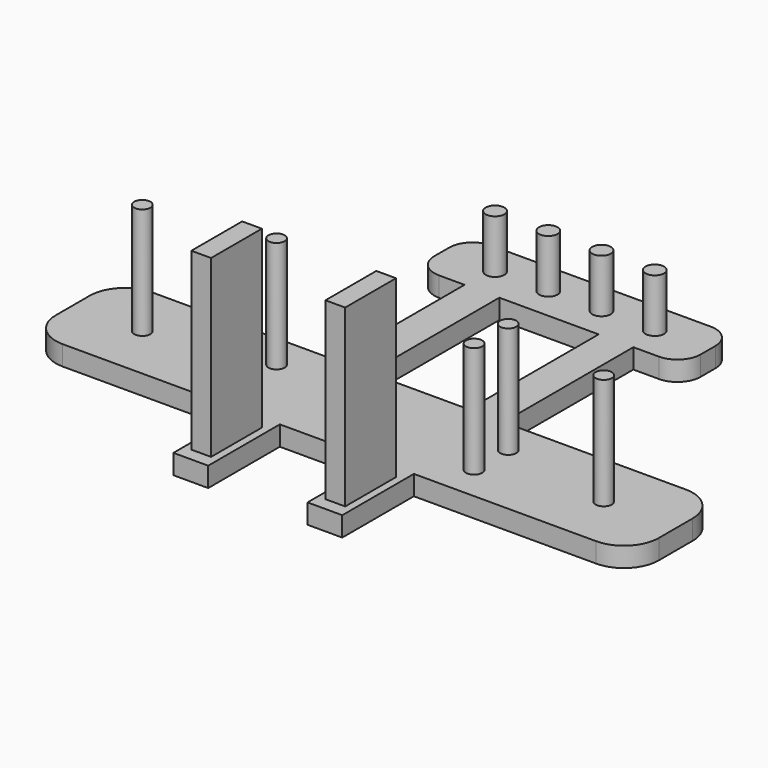
from build123d import *

# Parameters (mm, degrees)
F0_W     = 3.81
F0_H     = 17.78
F0_W_2   = 3.802742
F0_H_2   = 9.8044
F1_DEPTH = 2.159
F2_R     = 0.889
F3_DEPTH = 12.192
F4_R     = 1.016
F5_DEPTH = 5.842
F6_W     = 2.159
F6_H     = 6.9596
F7_DEPTH = 19.177


with BuildPart() as f1:
    # F0 (on Top) → F1 (new body)
    with BuildSketch(Plane.XY):
        with BuildLine():
            Line((9.2456, -6.1341), (29.21, -6.1341))
            ThreePointArc((29.21, -6.1341), (31.904077, -5.018177), (33.02, -2.3241))
            Line((33.02, -2.3241), (33.02, 2.3241))
            ThreePointArc((33.02, 2.3241), (31.904077, 5.018177), (29.21, 6.1341))
            Line((29.21, 6.1341), (9.2456, 6.1341))
            Line((9.2456, 6.1341), (5.442858, 6.1341))
            Line((5.442858, 6.1341), (-5.4356, 6.1341))
            Line((-5.4356, 6.1341), (-9.2456, 6.1341))
            Line((-9.2456, 6.1341), (-29.21, 6.1341))
            ThreePointArc((-29.21, 6.1341), (-31.904077, 5.018177), (-33.02, 2.3241))
            Line((-33.02, 2.3241), (-33.02, -2.3241))
            ThreePointArc((-33.02, -2.3241), (-31.904077, -5.018177), (-29.21, -6.1341))
            Line((-29.21, -6.1341), (-9.2456, -6.1341))
            Line((-9.2456, -6.1341), (-5.4356, -6.1341))
            Line((-5.4356, -6.1341), (5.442858, -6.1341))
            Line((5.442858, -6.1341), (9.2456, -6.1341))
        make_face()
        with Locations((-7.3406, 15.0241)):
            Rectangle(F0_W, F0_H)
        with BuildLine():
            Line((5.442858, 23.9141), (9.2456, 23.9141))
            Line((9.2456, 23.9141), (12.0396, 23.9141))
            ThreePointArc((12.0396, 23.9141), (13.835651, 24.658049), (14.5796, 26.4541))
            Line((14.5796, 26.4541), (14.5796, 28.4861))
            ThreePointArc((14.5796, 28.4861), (13.835651, 30.282151), (12.0396, 31.0261))
            Line((12.0396, 31.0261), (-12.0396, 31.0261))
            ThreePointArc((-12.0396, 31.0261), (-13.835651, 30.282151), (-14.5796, 28.4861))
            Line((-14.5796, 28.4861), (-14.5796, 26.4541))
            ThreePointArc((-14.5796, 26.4541), (-13.835651, 24.658049), (-12.0396, 23.9141))
            Line((-12.0396, 23.9141), (-9.2456, 23.9141))
            Line((-9.2456, 23.9141), (-5.4356, 23.9141))
            Line((-5.4356, 23.9141), (0, 23.9141))
            Line((0, 23.9141), (5.442858, 23.9141))
        make_face()
        with Locations((7.344229, 15.0241)):
            Rectangle(F0_W_2, F0_H)
        with Locations((7.344229, -11.0363)):
            Rectangle(F0_W_2, F0_H_2)
        with Locations((-7.3406, -11.0363)):
            Rectangle(F0_W, F0_H_2)
    extrude(amount=F1_DEPTH)

    # F2 (on face) → F3 (join)
    with BuildSketch(Plane.XY.offset(2.159)):
        with Locations((-25.4, 0)):
            Circle(F2_R)
        with Locations((-12.556378, -2.3241)):
            Circle(F2_R)
        with Locations((-12.556378, 2.3241)):
            Circle(F2_R)
        with Locations((25.125987, 0)):
            Circle(F2_R)
        with Locations((12.8016, 2.3368)):
            Circle(F2_R)
        with Locations((12.8016, -2.3368)):
            Circle(F2_R)
    extrude(amount=F3_DEPTH)

    # F4 (on face) → F5 (join)
    with BuildSketch(Plane.XY.offset(2.159)):
        with Locations((-8.74776, 27.4701)):
            Circle(F4_R)
        with Locations((-2.91592, 27.4701)):
            Circle(F4_R)
        with Locations((2.91592, 27.4701)):
            Circle(F4_R)
        with Locations((8.74776, 27.4701)):
            Circle(F4_R)
    extrude(amount=F5_DEPTH)

    # F6 (on face) → F7 (join)
    with BuildSketch(Plane.XY.offset(2.159)):
        with Locations((-7.3406, -11.0363)):
            Rectangle(F6_W, F6_H)
        with Locations((7.347858, -11.0363)):
            Rectangle(F6_W, F6_H)
    extrude(amount=F7_DEPTH)


solid = f1.part
